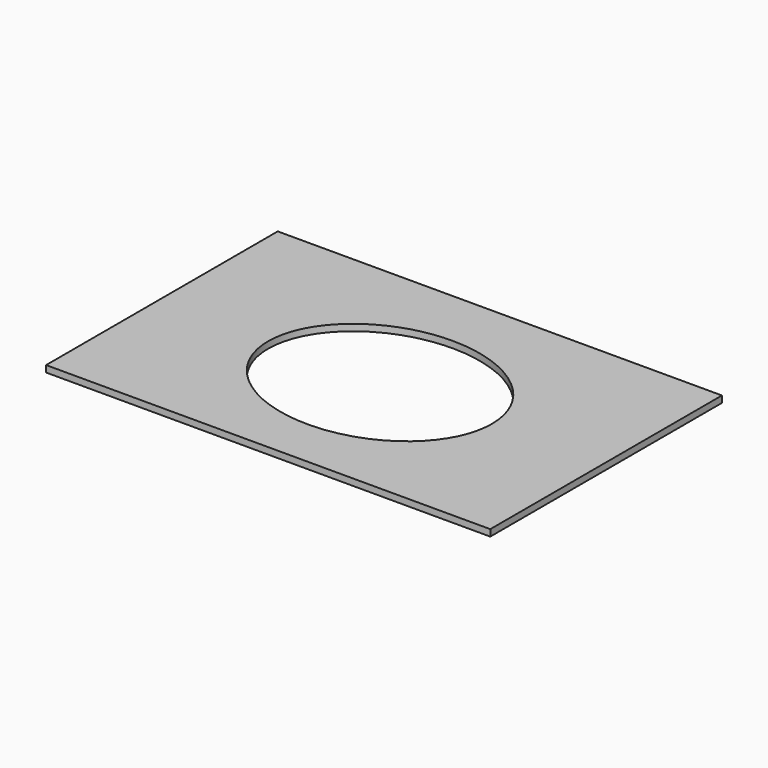
from build123d import *

# Parameters (mm, degrees)
F0_W     = 857.25
F0_H     = 558.8
F1_DEPTH = 12.7


with BuildPart() as f1:
    # F0 (on Top) → F1 (new body)
    with BuildSketch(Plane.XY):
        Rectangle(F0_W, F0_H)
        with BuildLine():
            add(Edge.make_bspline(
                [(215.9, -9.525), (215.9, 292.934372), (-107.95, 141.704686), (-431.8, -9.525), (-107.95, -160.754686), (215.9, -311.984372), (215.9, -9.525)],
                knots=[0, 0, 0, 2.094395, 2.094395, 4.18879, 4.18879, 6.283185, 6.283185, 6.283185], degree=2, weights=[1, 0.5, 1, 0.5, 1, 0.5, 1]))
        make_face(mode=Mode.SUBTRACT)
    extrude(amount=F1_DEPTH)


solid = f1.part
